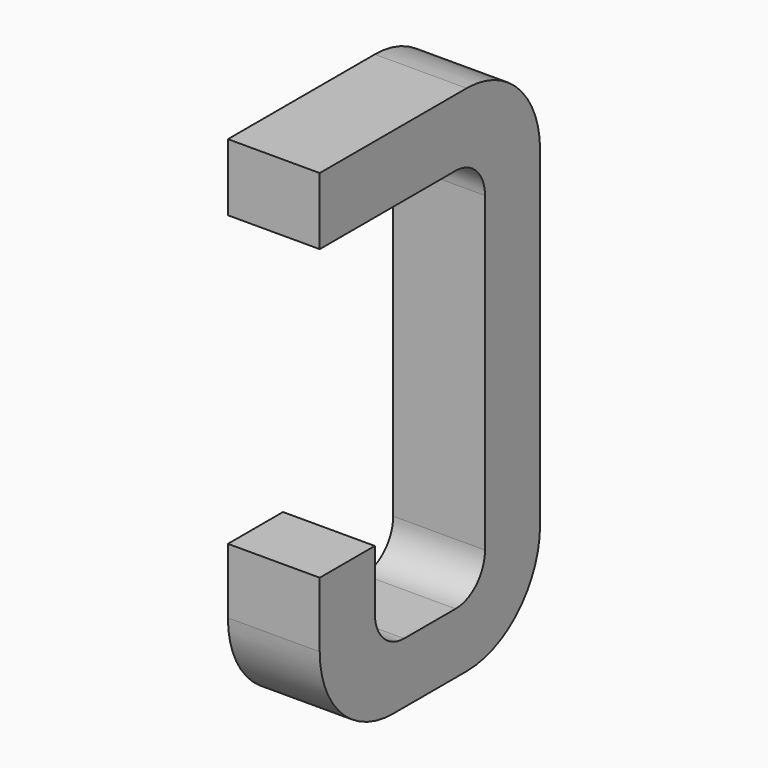
from build123d import *

# Parameters (mm, degrees)
BOX106_W     = 0.5
BOX106_H     = 1.5
BOX106_DEPTH = 2.795
FILLET283_R  = 0.5
FILLET287_R  = 0.5
FILLET279_R  = 0.5
BOX105_W     = 0.75
BOX105_H     = 2.1
BOX105_DEPTH = 1
FILLET274_R  = 0.2
FILLET296_R  = 0.2
FILLET282_R  = 0.2
FILLET273_R  = 0.2
BOX107_W     = 1
BOX107_H     = 1.575
BOX107_DEPTH = 3


with BuildPart() as part:
    # Box106 → Box106 (join)
    with BuildSketch(Plane(origin=(-0.25, 11.125, 0), x_dir=(1, 0, 0), z_dir=(0, 0, 1))):
        with Locations((0.25, 0.75)):
            Rectangle(BOX106_W, BOX106_H)
    extrude(amount=BOX106_DEPTH)

    # Fillet283
    fillet283_edges = [part.edges().sort_by_distance(p)[0] for p in [
        (0, 12.625, 0),
    ]]
    fillet(fillet283_edges, radius=FILLET283_R)

    # Fillet287
    fillet287_edges = [part.edges().sort_by_distance(p)[0] for p in [
        (0, 12.625, 2.795),
    ]]
    fillet(fillet287_edges, radius=FILLET287_R)

    # Fillet279
    fillet279_edges = [part.edges().sort_by_distance(p)[0] for p in [
        (0, 11.125, 0),
    ]]
    fillet(fillet279_edges, radius=FILLET279_R)

    # Box105 → Box105 (cut)
    with BuildSketch(Plane(origin=(-0.5, 11.5, 0.33), x_dir=(0, 1, 0), z_dir=(1, 0, 0))):
        with Locations((0.375, 1.05)):
            Rectangle(BOX105_W, BOX105_H)
    extrude(amount=BOX105_DEPTH, mode=Mode.SUBTRACT)

    # Fillet274
    fillet274_edges = [part.edges().sort_by_distance(p)[0] for p in [
        (0, 11.5, 0.33),
    ]]
    fillet(fillet274_edges, radius=FILLET274_R)

    # Fillet296
    fillet296_edges = [part.edges().sort_by_distance(p)[0] for p in [
        (0, 12.25, 0.33),
    ]]
    fillet(fillet296_edges, radius=FILLET296_R)

    # Fillet282
    fillet282_edges = [part.edges().sort_by_distance(p)[0] for p in [
        (0, 11.5, 2.43),
    ]]
    fillet(fillet282_edges, radius=FILLET282_R)

    # Fillet273
    fillet273_edges = [part.edges().sort_by_distance(p)[0] for p in [
        (0, 12.25, 2.43),
    ]]
    fillet(fillet273_edges, radius=FILLET273_R)

    # Box107 → Box107 (cut)
    with BuildSketch(Plane(origin=(-1, 11, 0.855), x_dir=(0, 1, 0), z_dir=(1, 0, 0))):
        with Locations((0.5, 0.7875)):
            Rectangle(BOX107_W, BOX107_H)
    extrude(amount=BOX107_DEPTH, mode=Mode.SUBTRACT)


with BuildPart() as part_1:
    # Body040 placement: moved
    add(part.part.moved(Location((1.27, 0, 0))))


solid = part_1.part
